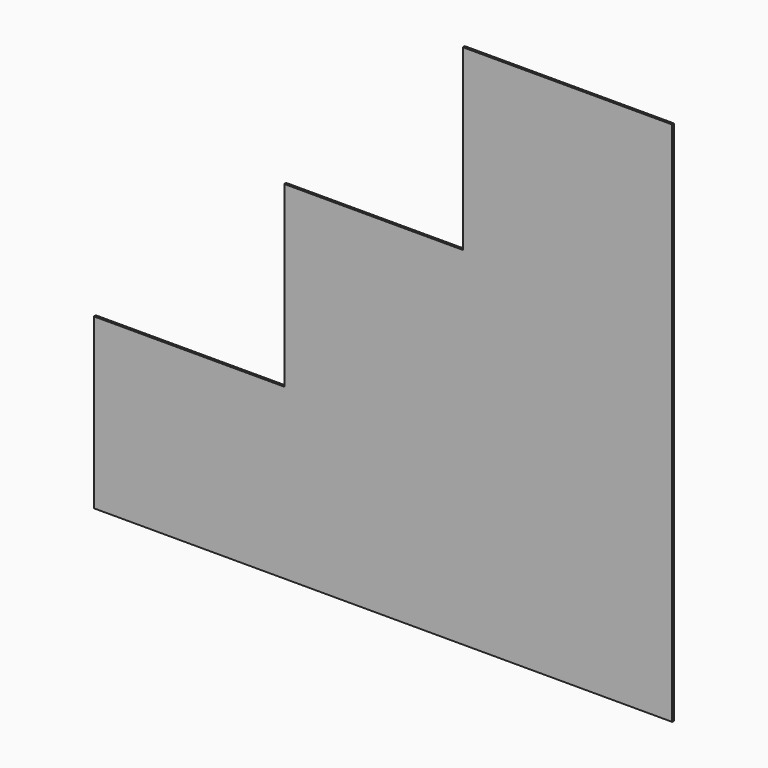
from build123d import *

# Parameters (mm, degrees)
F0_W     = 375
F0_H     = 355
F0_W_2   = 440
F0_H_2   = 20
F1_DEPTH = 5


with BuildPart() as f1:
    # F0 (on Front) → F1 (new body)
    with BuildSketch(Plane.XZ):
        Polygon((-815, 0), (-1215, 0), (-1215, -355), (0, -355), (0, 0), (-440, 0), align=None)
        with Locations((-627.5, 197.5)):
            Rectangle(F0_W, F0_H)
        with Locations((-220, 197.5)):
            Rectangle(F0_W_2, F0_H)
        with Locations((-220, 572.5)):
            Rectangle(F0_W_2, F0_H)
        with Locations((-220, 385)):
            Rectangle(F0_W_2, F0_H_2)
        with Locations((-220, 10)):
            Rectangle(F0_W_2, F0_H_2)
        with Locations((-627.5, 10)):
            Rectangle(F0_W, F0_H_2)
    extrude(amount=F1_DEPTH)


solid = f1.part
